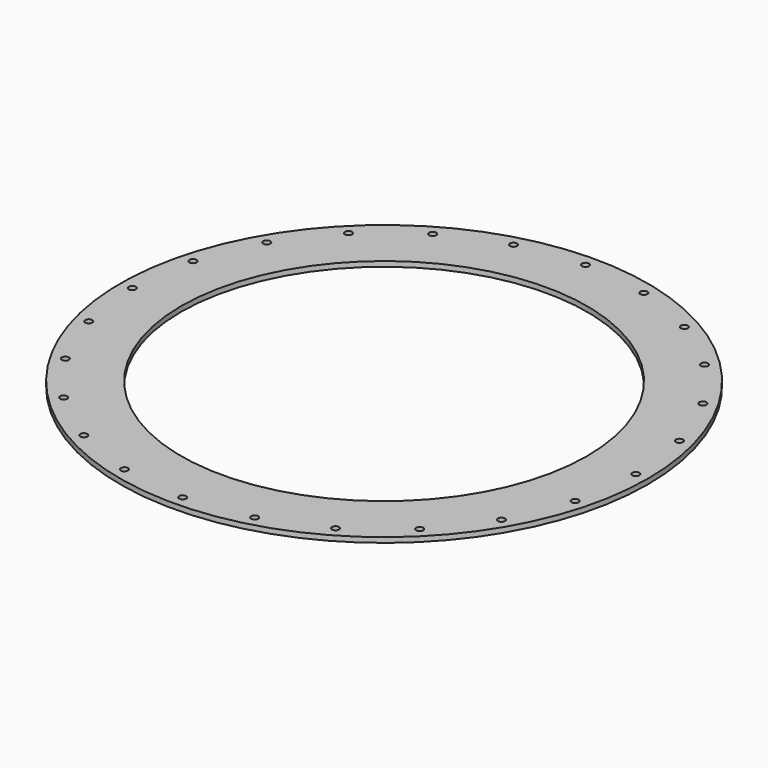
from build123d import *

# Parameters (mm, degrees)
F0_R     = 130
F0_R_2   = 1.75
F0_R_3   = 100
F1_DEPTH = 2.5


with BuildPart() as f1:
    # F0 (on Top) → F1 (new body)
    with BuildSketch(Plane.XY):
        Circle(F0_R)
        with Locations((-87.681241, -87.681241)):
            Circle(F0_R_2, mode=Mode.SUBTRACT)
        with Locations((-62, -107.38715)):
            Circle(F0_R_2, mode=Mode.SUBTRACT)
        with Locations((-32.093562, -119.774802)):
            Circle(F0_R_2, mode=Mode.SUBTRACT)
        with Locations((-107.38715, -62)):
            Circle(F0_R_2, mode=Mode.SUBTRACT)
        with Locations((-119.774802, -32.093562)):
            Circle(F0_R_2, mode=Mode.SUBTRACT)
        with Locations((0, -124)):
            Circle(F0_R_2, mode=Mode.SUBTRACT)
        with Locations((32.093562, -119.774802)):
            Circle(F0_R_2, mode=Mode.SUBTRACT)
        with Locations((62, -107.38715)):
            Circle(F0_R_2, mode=Mode.SUBTRACT)
        with Locations((87.681241, -87.681241)):
            Circle(F0_R_2, mode=Mode.SUBTRACT)
        with Locations((107.38715, -62)):
            Circle(F0_R_2, mode=Mode.SUBTRACT)
        with Locations((119.774802, -32.093562)):
            Circle(F0_R_2, mode=Mode.SUBTRACT)
        with Locations((-124, 0)):
            Circle(F0_R_2, mode=Mode.SUBTRACT)
        with Locations((-119.774802, 32.093562)):
            Circle(F0_R_2, mode=Mode.SUBTRACT)
        with Locations((-107.38715, 62)):
            Circle(F0_R_2, mode=Mode.SUBTRACT)
        with Locations((-87.681241, 87.681241)):
            Circle(F0_R_2, mode=Mode.SUBTRACT)
        with Locations((-62, 107.38715)):
            Circle(F0_R_2, mode=Mode.SUBTRACT)
        with Locations((-32.093562, 119.774802)):
            Circle(F0_R_2, mode=Mode.SUBTRACT)
        Circle(F0_R_3, mode=Mode.SUBTRACT)
        with Locations((124, 0)):
            Circle(F0_R_2, mode=Mode.SUBTRACT)
        with Locations((119.774802, 32.093562)):
            Circle(F0_R_2, mode=Mode.SUBTRACT)
        with Locations((107.38715, 62)):
            Circle(F0_R_2, mode=Mode.SUBTRACT)
        with Locations((0, 124)):
            Circle(F0_R_2, mode=Mode.SUBTRACT)
        with Locations((32.093562, 119.774802)):
            Circle(F0_R_2, mode=Mode.SUBTRACT)
        with Locations((62, 107.38715)):
            Circle(F0_R_2, mode=Mode.SUBTRACT)
        with Locations((87.681241, 87.681241)):
            Circle(F0_R_2, mode=Mode.SUBTRACT)
    extrude(amount=F1_DEPTH)


solid = f1.part
